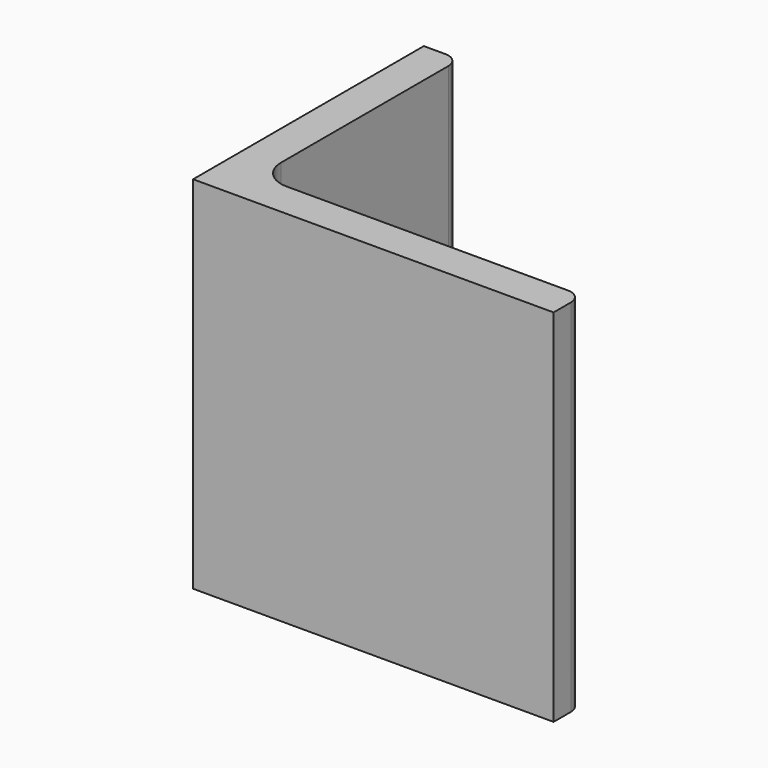
from build123d import *

# Parameters (mm, degrees)
EXTRUDE_DEPTH = 50


with BuildPart() as part:
    # Sketch → Extrude (new body)
    with BuildSketch(Plane.XY):
        with BuildLine():
            Line((0, 0), (50, 0))
            Line((50, 0), (50, 3))
            ThreePointArc((50, 3), (49.414214, 4.414214), (48, 5))
            Line((48, 5), (9, 5))
            ThreePointArc((5, 9), (6.171573, 6.171573), (9, 5))
            Line((5, 38), (5, 9))
            ThreePointArc((5, 38), (4.414214, 39.414214), (3, 40))
            Line((0, 40), (3, 40))
            Line((0, 0), (0, 40))
        make_face()
    extrude(amount=EXTRUDE_DEPTH)


solid = part.part
